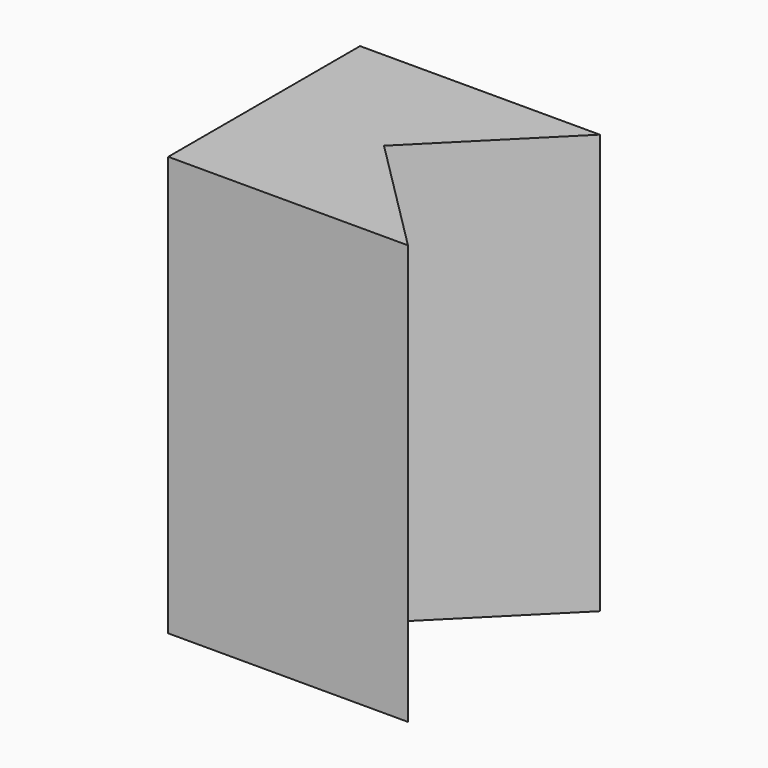
from build123d import *

# Parameters (mm, degrees)
F0_W     = 101.6
F0_H     = 101.6
F1_DEPTH = 177.8
F3_DEPTH = 177.8


with BuildPart() as f1:
    # F0 (on Top) → F1 (new body)
    with BuildSketch(Plane.XY):
        Rectangle(F0_W, F0_H)
    extrude(amount=F1_DEPTH)

    # F2 (on face) → F3 (cut, through all)
    with BuildSketch(Plane.XY.offset(177.8)):
        Polygon((50.8, 50.8), (0, 0), (50.8, -50.8), align=None)
    extrude(amount=-F3_DEPTH, mode=Mode.SUBTRACT)


solid = f1.part
